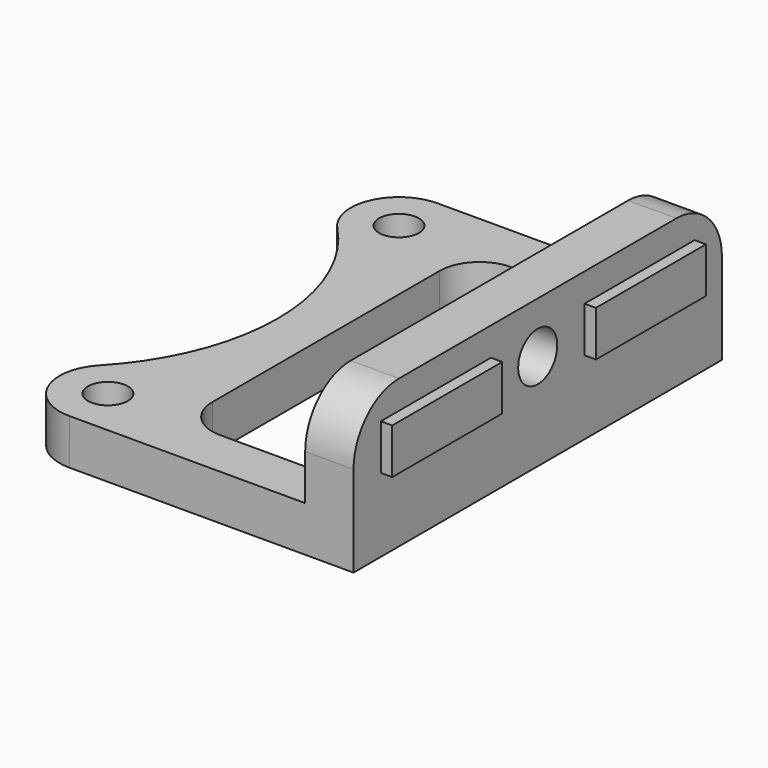
from build123d import *

# Parameters (mm, degrees)
F0_R     = 1.75
F1_DEPTH = 4
F2_W     = 4.25
F2_H     = 40.5
F3_DEPTH = 9
F4_R     = 2.15
F5_DEPTH = 25
F6_R     = 5
F7_W     = 12.1
F7_H     = 4
F8_DEPTH = 1


with BuildPart() as f1:
    # F0 (on Top) → F1 (new body)
    with BuildSketch(Plane.XY):
        with BuildLine():
            Line((18.61898, 20.25), (-6.38102, 20.25))
            ThreePointArc((-6.38102, 20.25), (-10.285671, 17.678153), (-9.464597, 13.075269))
            ThreePointArc((-9.464597, 13.075269), (-4.25, 0), (-9.464597, -13.075269))
            ThreePointArc((-9.464597, -13.075269), (-10.285671, -17.678153), (-6.38102, -20.25))
            Line((-6.38102, -20.25), (18.61898, -20.25))
            Line((18.61898, -20.25), (18.61898, 0))
            Line((18.61898, 0), (18.61898, 20.25))
        make_face()
        with Locations((-6.38102, -16)):
            Circle(F0_R, mode=Mode.SUBTRACT)
        with Locations((-6.38102, 16)):
            Circle(F0_R, mode=Mode.SUBTRACT)
        with BuildLine():
            Line((3.5, 16), (10.86898, 16))
            ThreePointArc((10.86898, 16), (13.343854, 14.974874), (14.36898, 12.5))
            Line((14.36898, 12.5), (14.36898, -12.5))
            ThreePointArc((14.36898, -12.5), (13.343854, -14.974874), (10.86898, -16))
            Line((10.86898, -16), (3.5, -16))
            ThreePointArc((3.5, -16), (1.025126, -14.974874), (0, -12.5))
            Line((0, -12.5), (0, 12.5))
            ThreePointArc((0, 12.5), (1.025126, 14.974874), (3.5, 16))
        make_face(mode=Mode.SUBTRACT)
    extrude(amount=F1_DEPTH)

    # F2 (on face) → F3 (join)
    with BuildSketch(Plane.XY.offset(4)):
        with Locations((16.49398, 0)):
            Rectangle(F2_W, F2_H)
    extrude(amount=F3_DEPTH)

    # F4 (on face) → F5 (cut)
    with BuildSketch(Plane(origin=(14.36898, 0, 0), x_dir=(0, -1, 0), z_dir=(-1, 0, 0))):
        with Locations((0, 8.5)):
            Circle(F4_R)
    extrude(amount=-F5_DEPTH, mode=Mode.SUBTRACT)

    # F6
    f6_edges = [f1.edges().sort_by_distance(p)[0] for p in [
        (16.49398, -20.25, 13),
        (16.49398, 20.25, 13),
    ]]
    fillet(f6_edges, radius=F6_R)

    # F7 (on face) → F8 (join)
    with BuildSketch(Plane.YZ.offset(18.61898)):
        with Locations((-11.2, 8.5)):
            Rectangle(F7_W, F7_H)
        with Locations((11.2, 8.5)):
            Rectangle(F7_W, F7_H)
    extrude(amount=F8_DEPTH)


solid = f1.part
